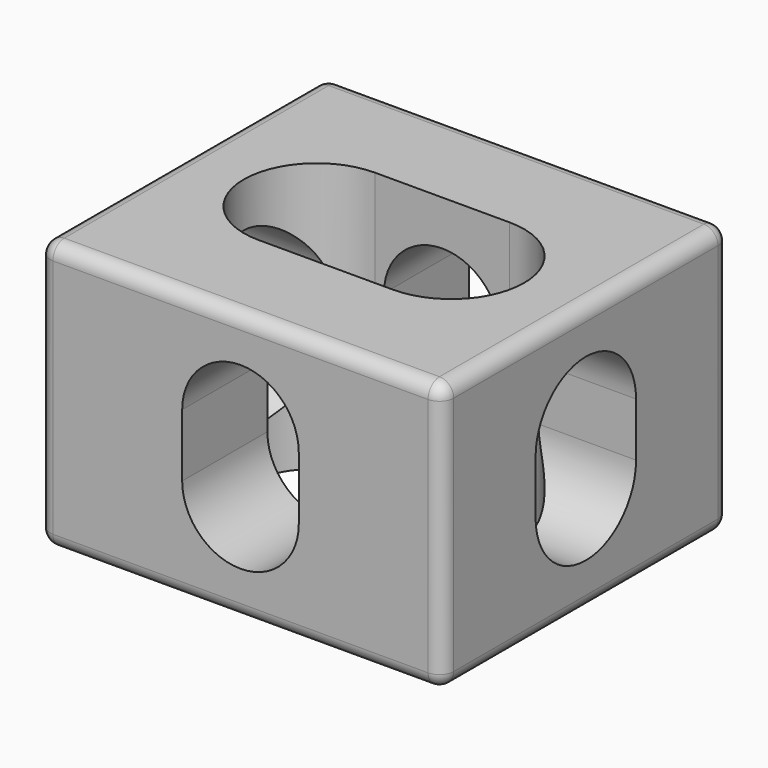
from build123d import *

# Parameters (mm, degrees)
F1_DEPTH = 160
F3_DEPTH = 120
F5_DEPTH = 180
F6_R     = 6.35
F7_R     = 6.35


with BuildPart() as f1:
    # F0 (on Front) → F1 (new body)
    with BuildSketch(Plane.XZ):
        with BuildLine():
            Line((140.422905, 79.857803), (-26.877095, 79.857803))
            ThreePointArc((-26.877095, 79.857803), (-31.367223, 77.997931), (-33.227095, 73.507803))
            Line((-33.227095, 73.507803), (-33.227095, -33.792197))
            ThreePointArc((-33.227095, -33.792197), (-31.367223, -38.282325), (-26.877095, -40.142197))
            Line((-26.877095, -40.142197), (140.422905, -40.142197))
            ThreePointArc((140.422905, -40.142197), (144.913033, -38.282325), (146.772905, -33.792197))
            Line((146.772905, -33.792197), (146.772905, 73.507803))
            ThreePointArc((146.772905, 73.507803), (144.913033, 77.997931), (140.422905, 79.857803))
        make_face()
        with BuildLine():
            Line((30.772905, 5.857803), (30.772905, 33.857803))
            ThreePointArc((30.772905, 33.857803), (56.772905, 59.857803), (82.772905, 33.857803))
            Line((82.772905, 33.857803), (82.772905, 5.857803))
            ThreePointArc((82.772905, 5.857803), (56.772905, -20.142197), (30.772905, 5.857803))
        make_face(mode=Mode.SUBTRACT)
    extrude(amount=F1_DEPTH)

    # F2 (on face) → F3 (cut)
    with BuildSketch(Plane(origin=(0, 0, -40.142197), x_dir=(1, 0, 0), z_dir=(0, 0, -1))):
        with BuildLine():
            Line((26.772905, 47.5), (86.772905, 47.5))
            ThreePointArc((86.772905, 47.5), (119.272905, 80), (86.772905, 112.5))
            Line((86.772905, 112.5), (26.772905, 112.5))
            ThreePointArc((26.772905, 112.5), (-5.727095, 80), (26.772905, 47.5))
        make_face()
    extrude(amount=-F3_DEPTH, mode=Mode.SUBTRACT)

    # F4 (on face) → F5 (cut)
    with BuildSketch(Plane(origin=(-33.227095, 0, 0), x_dir=(0, -1, 0), z_dir=(-1, 0, 0))):
        with BuildLine():
            ThreePointArc((108, 31.857803), (80, 59.857803), (52, 31.857803))
            Line((52, 31.857803), (52, 7.857803))
            ThreePointArc((52, 7.857803), (80, -20.142197), (108, 7.857803))
            Line((108, 7.857803), (108, 31.857803))
        make_face()
    extrude(amount=-F5_DEPTH, mode=Mode.SUBTRACT)

    # F6
    f6_edges = [f1.edges().sort_by_distance(p)[0] for p in [
        (56.772905, 0, -40.142197),
        (140.422905, -80, -40.142197),
    ]]
    fillet(f6_edges, radius=F6_R)

    # F7
    f7_edges = [f1.edges().sort_by_distance(p)[0] for p in [
        (56.772905, -160, -40.142197),
        (-26.877095, -83.175, -40.142197),
    ]]
    fillet(f7_edges, radius=F7_R)


solid = f1.part
